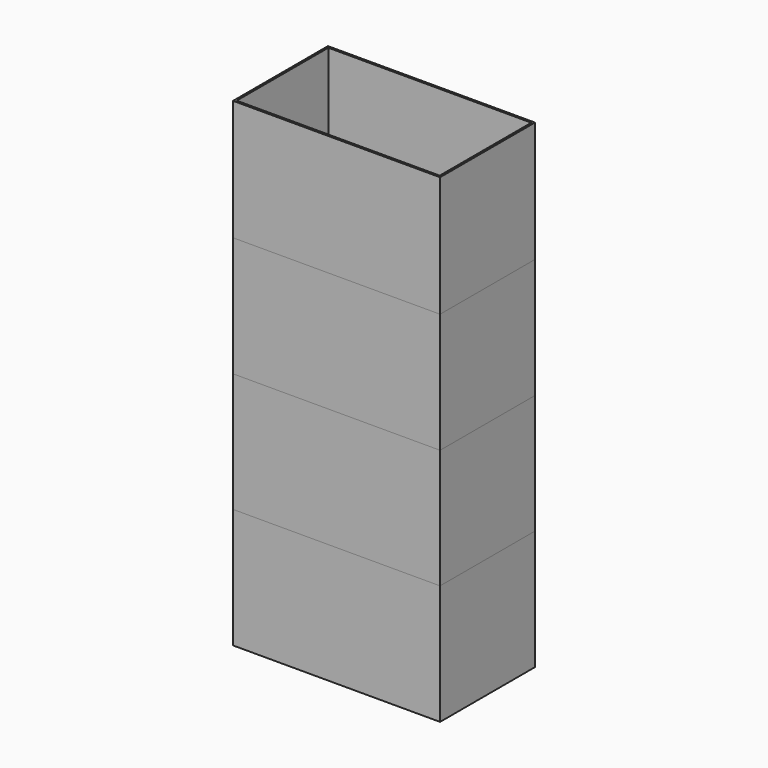
from build123d import *

# Parameters (mm, degrees)
F0_W     = 515
F0_H     = 295
F1_DEPTH = 5
F2_W     = 515
F2_H     = 295
F2_W_2   = 505
F2_H_2   = 285
F3_DEPTH = 295


with BuildPart() as f1:
    # F0 (on Top) → F1 (new body)
    with BuildSketch(Plane.XY):
        Rectangle(F0_W, F0_H)
    extrude(amount=F1_DEPTH)

    # F2 (on face) → F3 (join)
    with BuildSketch(Plane.XY.offset(5)):
        Rectangle(F2_W, F2_H)
        Rectangle(F2_W_2, F2_H_2, mode=Mode.SUBTRACT)
    extrude(amount=F3_DEPTH)


with BuildPart() as f4_1:
    # F4: copy of F1
    add(f1.part.moved(Location((0, 0, 298))))


with BuildPart() as f5_1:
    # F5: copy of F1
    add(f1.part.moved(Location((0, 0, 595))))


with BuildPart() as f6_1:
    # F6: copy of F1
    add(f1.part.moved(Location((0, 0, 893))))


solid = Compound([f1.part, f4_1.part, f5_1.part, f6_1.part])
